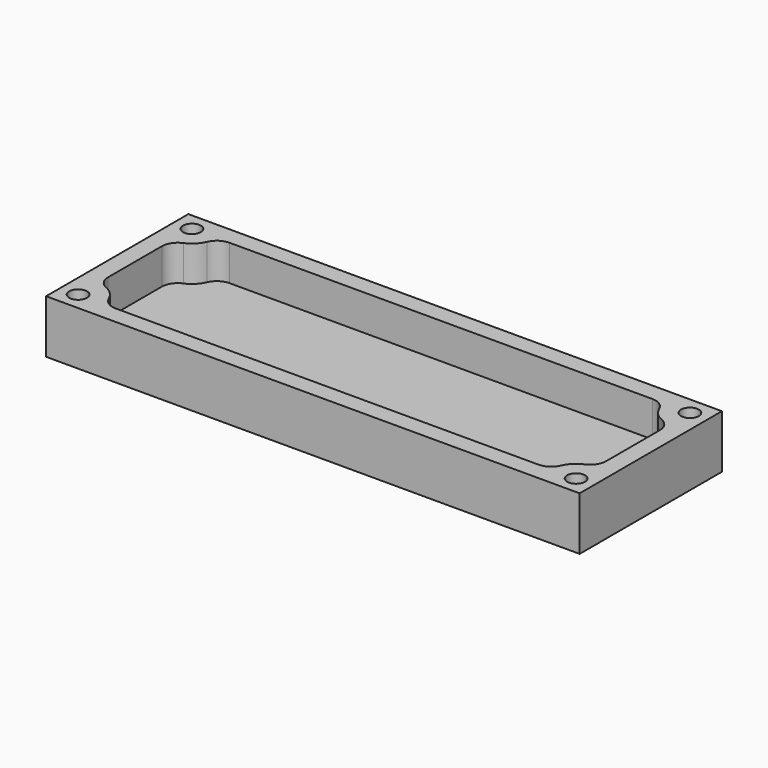
from build123d import *

# Parameters (mm, degrees)
F0_W     = 300
F0_H     = 100
F1_DEPTH = 30
F3_DEPTH = 20
F4_R     = 5
F5_DEPTH = 30.001


with BuildPart() as f1:
    # F0 (on Top) → F1 (new body)
    with BuildSketch(Plane.XY):
        with Locations((150, 50)):
            Rectangle(F0_W, F0_H)
    extrude(amount=F1_DEPTH)

    # F2 (on face) → F3 (cut)
    with BuildSketch(Plane.XY.offset(30)):
        with BuildLine():
            Line((268.83399, 90), (150, 90))
            Line((150, 90), (31.16601, 90))
            ThreePointArc((31.16601, 90), (26.200915, 88.506519), (22.883659, 84.521739))
            ThreePointArc((22.883659, 84.521739), (19.899495, 80.100505), (15.478261, 77.116341))
            ThreePointArc((15.478261, 77.116341), (11.493481, 73.799085), (10, 68.83399))
            Line((10, 68.83399), (10, 50))
            Line((10, 50), (10, 31.16601))
            ThreePointArc((10, 31.16601), (11.493481, 26.200915), (15.478261, 22.883659))
            ThreePointArc((15.478261, 22.883659), (19.899495, 19.899495), (22.883659, 15.478261))
            ThreePointArc((22.883659, 15.478261), (26.200915, 11.493481), (31.16601, 10))
            Line((31.16601, 10), (150, 10))
            Line((150, 10), (268.83399, 10))
            ThreePointArc((268.83399, 10), (273.799085, 11.493481), (277.116341, 15.478261))
            ThreePointArc((277.116341, 15.478261), (280.100505, 19.899495), (284.521739, 22.883659))
            ThreePointArc((284.521739, 22.883659), (288.506519, 26.200915), (290, 31.16601))
            Line((290, 31.16601), (290, 50))
            Line((290, 50), (290, 68.83399))
            ThreePointArc((290, 68.83399), (288.506519, 73.799085), (284.521739, 77.116341))
            ThreePointArc((284.521739, 77.116341), (280.100505, 80.100505), (277.116341, 84.521739))
            ThreePointArc((277.116341, 84.521739), (273.799085, 88.506519), (268.83399, 90))
        make_face()
    extrude(amount=-F3_DEPTH, mode=Mode.SUBTRACT)

    # F4 (on face) → F5 (cut, through all)
    with BuildSketch(Plane.XY.offset(30)):
        with Locations((290, 90)):
            Circle(F4_R)
        with Locations((10, 90)):
            Circle(F4_R)
        with Locations((10, 10)):
            Circle(F4_R)
        with Locations((290, 10)):
            Circle(F4_R)
    extrude(amount=-F5_DEPTH, mode=Mode.SUBTRACT)


solid = f1.part
